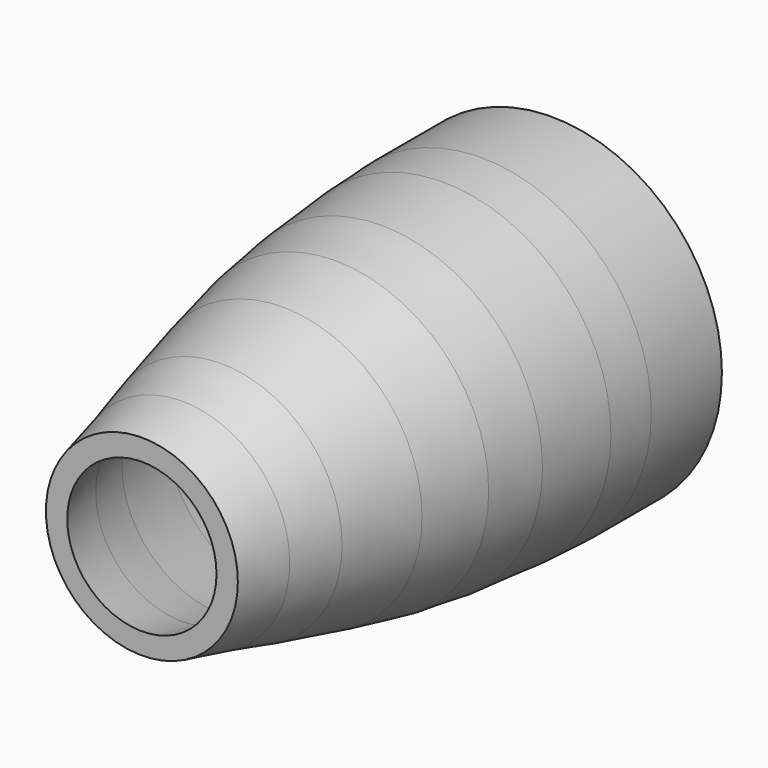
from build123d import *


with BuildPart() as part:
    # Sketch → Revolution (revolve)
    with BuildSketch(Plane.XY):
        Polygon((7, 0), (8.099794, 4.702987), (9.329645, 9.302061), (11.066492, 16.505043), (12.377028, 22.6833), (13.125909, 28.050268), (13.738481, 35.305431), (13.945046, 39.781013), (13.945046, 48.059425), (15.945046, 48.059425), (15.945046, 39.781013), (15.738481, 35.305431), (15.125909, 28.050268), (14.377028, 22.6833), (13.066492, 16.505043), (11.329645, 9.302061), (10.099794, 4.702987), (9, 0), align=None)
    revolve(axis=Axis((0, 0, 0), (0, 1, 0)))


solid = part.part
